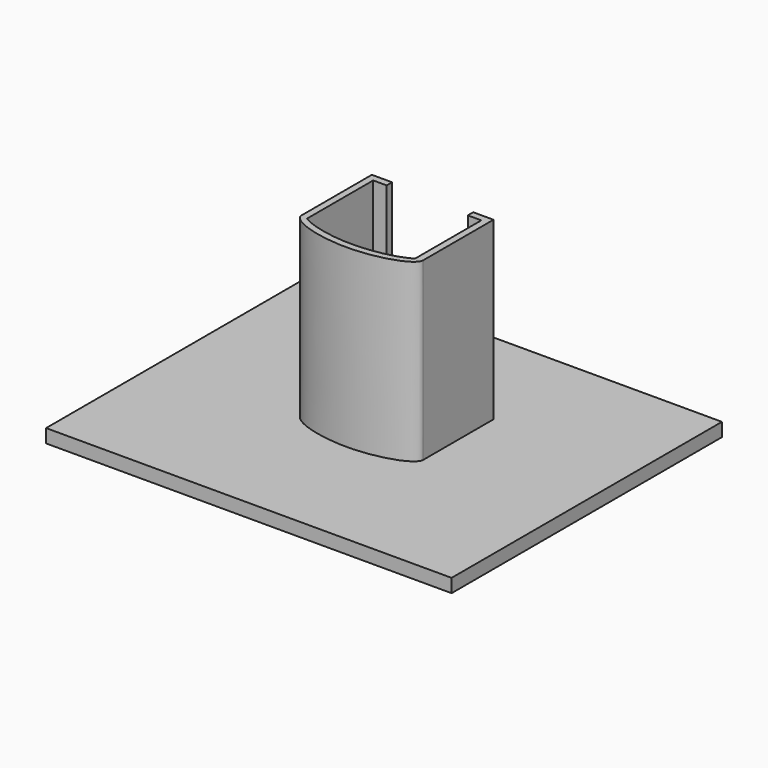
from build123d import *

# Parameters (mm, degrees)
F1_DEPTH = 26
F2_W     = 60
F2_H     = 50
F3_DEPTH = 2
F4_DEPTH = 20


with BuildPart() as f1:
    # F0 (on Top) → F1 (new body)
    with BuildSketch(Plane.XY):
        with BuildLine():
            Line((-9, 9), (-9, 0))
            Line((-9, 0), (-9, -3))
            add(Edge.make_bspline(
                [(-9, -3), (-9, -2.5707676204), (-8.6315191286, -2.1415352408), (-8, -1.7474503993)],
                knots=[0, 0, 0, 0, 0.0715387299, 0.0715387299, 0.0715387299, 0.0715387299], degree=3))
            Line((-8, -1.7474503993), (-8, 0))
            Line((-8, 0), (-8, 1))
            Line((-8, 1), (-8, 8))
            Line((-8, 8), (-6, 8))
            Line((-6, 8), (-6, 9))
            Line((-6, 9), (-9, 9))
        make_face()
        with BuildLine():
            add(Edge.make_bspline(
                [(-9, -3), (-9, -2.5707676204), (-8.6315191286, -2.1415352408), (-8, -1.7474503993)],
                knots=[0, 0, 0, 0, 0.0715387299, 0.0715387299, 0.0715387299, 0.0715387299], degree=3))
            add(Edge.make_bspline(
                [(-8.8381918042, -3.5), (-8.9439804927, -3.3347222947), (-9, -3.1673611473), (-9, -3)],
                knots=[0.9721064754, 0.9721064754, 0.9721064754, 0.9721064754, 1, 1, 1, 1], degree=3))
            add(Edge.make_bspline(
                [(-8, -2.7474503993), (-8.3852847555, -2.9878784004), (-8.6726634562, -3.2413887449), (-8.8381918042, -3.5)],
                knots=[0.9284612701, 0.9284612701, 0.9284612701, 0.9284612701, 0.9721064754, 0.9721064754, 0.9721064754, 0.9721064754], degree=3))
            Line((-8, -2.7474503993), (-8, -1.7474503993))
        make_face()
        with BuildLine():
            add(Edge.make_bspline(
                [(-8.8381918042, -3.5), (-8.9439804927, -3.3347222947), (-9, -3.1673611473), (-9, -3)],
                knots=[0.9721064754, 0.9721064754, 0.9721064754, 0.9721064754, 1, 1, 1, 1], degree=3))
            Line((-9, -3), (-9, -4))
            add(Edge.make_bspline(
                [(-8.8381918042, -3.5), (-8.9439804927, -3.6652777053), (-9, -3.8326388527), (-9, -4)],
                knots=[0.9721064754, 0.9721064754, 0.9721064754, 0.9721064754, 1, 1, 1, 1], degree=3))
        make_face()
        with BuildLine():
            add(Edge.make_bspline(
                [(-8, -2.7474503993), (-8.3852847555, -2.9878784004), (-8.6726634562, -3.2413887449), (-8.8381918042, -3.5)],
                knots=[0.9284612701, 0.9284612701, 0.9284612701, 0.9284612701, 0.9721064754, 0.9721064754, 0.9721064754, 0.9721064754], degree=3))
            add(Edge.make_bspline(
                [(-8, -4.2525496007), (-8.3852847555, -4.0121215996), (-8.6726634562, -3.7586112551), (-8.8381918042, -3.5)],
                knots=[0.9284612701, 0.9284612701, 0.9284612701, 0.9284612701, 0.9721064754, 0.9721064754, 0.9721064754, 0.9721064754], degree=3))
            Line((-8, -4.2525496007), (-8, -2.7474503993))
        make_face()
        with BuildLine():
            add(Edge.make_bspline(
                [(-8.8381918042, -3.5), (-8.9439804927, -3.6652777053), (-9, -3.8326388527), (-9, -4)],
                knots=[0.9721064754, 0.9721064754, 0.9721064754, 0.9721064754, 1, 1, 1, 1], degree=3))
            add(Edge.make_bspline(
                [(-9, -4), (-9, -5.5), (0, -8.5), (9, -5.5), (9, -4)],
                knots=[0, 0, 0, 0, 0.25, 0.5, 0.5, 0.5, 0.5], degree=3))
            add(Edge.make_bspline(
                [(9, -4), (9, -3.8326388527), (8.9439804927, -3.6652777053), (8.8381918042, -3.5)],
                knots=[0.5, 0.5, 0.5, 0.5, 0.5278935246, 0.5278935246, 0.5278935246, 0.5278935246], degree=3))
            add(Edge.make_bspline(
                [(8.8381918042, -3.5), (8.6726634562, -3.7586112551), (8.3852847555, -4.0121215996), (8, -4.2525496007)],
                knots=[0.5278935246, 0.5278935246, 0.5278935246, 0.5278935246, 0.5715387299, 0.5715387299, 0.5715387299, 0.5715387299], degree=3))
            add(Edge.make_bspline(
                [(8, -4.2525496007), (6.4246057224, -5.2356378021), (0, -6.7643621979), (-6.4246057224, -5.2356378021), (-8, -4.2525496007)],
                knots=[0.5715387299, 0.5715387299, 0.5715387299, 0.5715387299, 0.75, 0.9284612701, 0.9284612701, 0.9284612701, 0.9284612701], degree=3))
            add(Edge.make_bspline(
                [(-8, -4.2525496007), (-8.3852847555, -4.0121215996), (-8.6726634562, -3.7586112551), (-8.8381918042, -3.5)],
                knots=[0.9284612701, 0.9284612701, 0.9284612701, 0.9284612701, 0.9721064754, 0.9721064754, 0.9721064754, 0.9721064754], degree=3))
        make_face()
        with BuildLine():
            add(Edge.make_bspline(
                [(8.8381918042, -3.5), (8.6726634562, -3.7586112551), (8.3852847555, -4.0121215996), (8, -4.2525496007)],
                knots=[0.5278935246, 0.5278935246, 0.5278935246, 0.5278935246, 0.5715387299, 0.5715387299, 0.5715387299, 0.5715387299], degree=3))
            add(Edge.make_bspline(
                [(8.8381918042, -3.5), (8.6726634562, -3.2413887449), (8.3852847555, -2.9878784004), (8, -2.7474503993)],
                knots=[0.5278935246, 0.5278935246, 0.5278935246, 0.5278935246, 0.5715387299, 0.5715387299, 0.5715387299, 0.5715387299], degree=3))
            Line((8, -2.7474503993), (8, -4.2525496007))
        make_face()
        with BuildLine():
            add(Edge.make_bspline(
                [(9, -3), (9, -3.1673611473), (8.9439804927, -3.3347222947), (8.8381918042, -3.5)],
                knots=[0.5, 0.5, 0.5, 0.5, 0.5278935246, 0.5278935246, 0.5278935246, 0.5278935246], degree=3))
            add(Edge.make_bspline(
                [(8, -1.7474503993), (8.6315191286, -2.1415352408), (9, -2.5707676204), (9, -3)],
                knots=[0.4284612701, 0.4284612701, 0.4284612701, 0.4284612701, 0.5, 0.5, 0.5, 0.5], degree=3))
            Line((8, -1.7474503993), (8, -2.7474503993))
            add(Edge.make_bspline(
                [(8.8381918042, -3.5), (8.6726634562, -3.2413887449), (8.3852847555, -2.9878784004), (8, -2.7474503993)],
                knots=[0.5278935246, 0.5278935246, 0.5278935246, 0.5278935246, 0.5715387299, 0.5715387299, 0.5715387299, 0.5715387299], degree=3))
        make_face()
        with BuildLine():
            add(Edge.make_bspline(
                [(8, -1.7474503993), (8.6315191286, -2.1415352408), (9, -2.5707676204), (9, -3)],
                knots=[0.4284612701, 0.4284612701, 0.4284612701, 0.4284612701, 0.5, 0.5, 0.5, 0.5], degree=3))
            Line((9, -3), (9, 0))
            Line((9, 0), (9, 9))
            Line((9, 9), (6, 9))
            Line((6, 9), (6, 8))
            Line((6, 8), (8, 8))
            Line((8, 8), (8, 1))
            Line((8, 1), (8, 0))
            Line((8, 0), (8, -1.7474503993))
        make_face()
        with BuildLine():
            add(Edge.make_bspline(
                [(9, -4), (9, -3.8326388527), (8.9439804927, -3.6652777053), (8.8381918042, -3.5)],
                knots=[0.5, 0.5, 0.5, 0.5, 0.5278935246, 0.5278935246, 0.5278935246, 0.5278935246], degree=3))
            Line((9, -4), (9, -3))
            add(Edge.make_bspline(
                [(9, -3), (9, -3.1673611473), (8.9439804927, -3.3347222947), (8.8381918042, -3.5)],
                knots=[0.5, 0.5, 0.5, 0.5, 0.5278935246, 0.5278935246, 0.5278935246, 0.5278935246], degree=3))
        make_face()
    extrude(amount=F1_DEPTH)

    # F2 (on Top) → F3 (join)
    with BuildSketch(Plane.XY):
        Rectangle(F2_W, F2_H)
    extrude(amount=-F3_DEPTH)

    # F0 (on Top) → F4 (join)
    with BuildSketch(Plane.XY):
        Polygon((-8, 0), (0, 0), (8, 0), (8, 1), (-8, 1), align=None)
    extrude(amount=F4_DEPTH)


solid = f1.part
